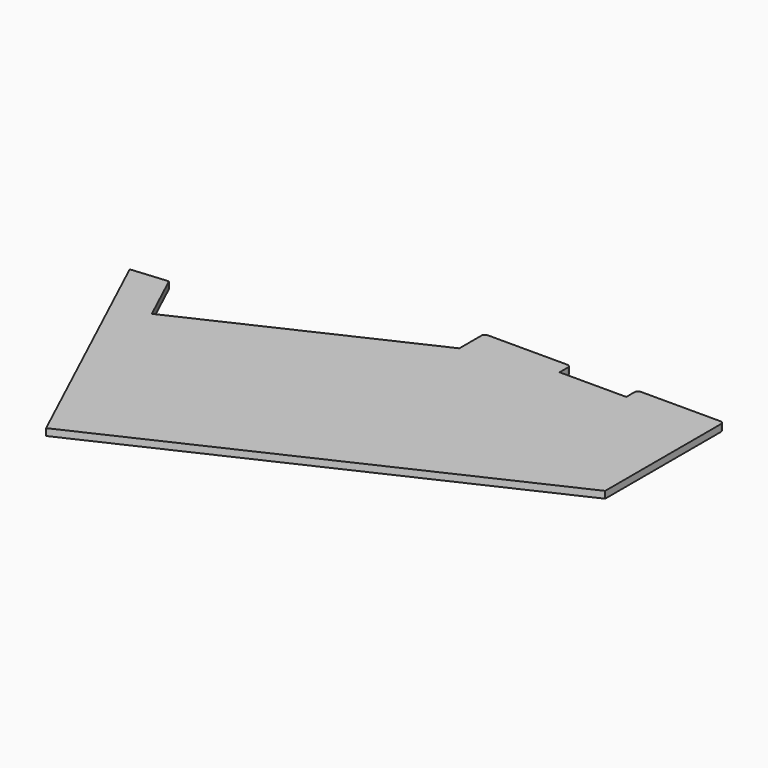
from build123d import *

# Parameters (mm, degrees)
F1_DEPTH = 2
F2_R     = 1


with BuildPart() as f1:
    # F0 (on Top) → F1 (new body)
    with BuildSketch(Plane.XY):
        Polygon((62.096313, 46.853608), (62.096313, 50.853608), (37.096313, 50.853608), (37.096313, 46.853608), (17.796313, 46.853608), (17.796313, 50.853608), (-7.203687, 50.853608), (-7.203687, 46.853608), (-7.203687, 41.853608), (-72.017718, 11.630329), (-78.931878, 26.457794), (-89.533161, 25.530302), (-55.7237, -46.974321), (62.096313, 7.966053), align=None)
    extrude(amount=F1_DEPTH)

    # F2
    f2_edges = [f1.edges().sort_by_distance(p)[0] for p in [
        (37.096313, 50.853608, 1),
        (62.096313, 50.853608, 1),
        (17.796313, 50.853608, 1),
        (-7.203687, 50.853608, 1),
    ]]
    fillet(f2_edges, radius=F2_R)


solid = f1.part
